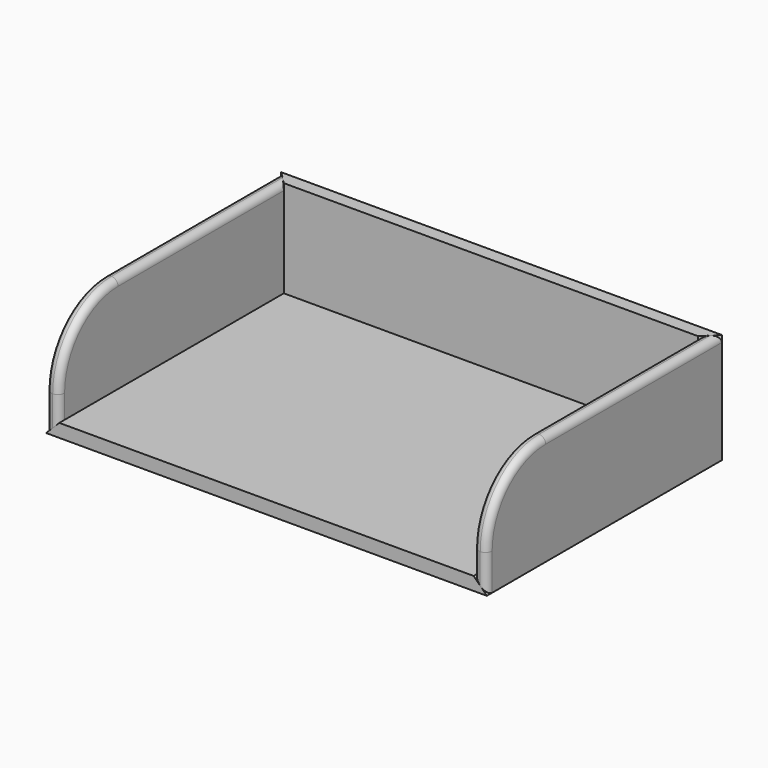
from build123d import *

# Parameters (mm, degrees)
SKETCH_W        = 600
SKETCH_H        = 400
PAD_DEPTH       = 18
CHAMFER_SIZE    = 17.9982
PAD001_DEPTH    = 18
CHAMFER001_SIZE = 17.9982
FILLET_R        = 8.99991
PAD002_DEPTH    = 18
CHAMFER002_SIZE = 17.9982
FILLET001_R     = 8.99991
SKETCH003_W     = 600
SKETCH003_H     = 150
PAD003_DEPTH    = 18
CHAMFER003_SIZE = 17.9982


with BuildPart() as base:
    # Sketch → Pad (new body)
    with BuildSketch(Plane.XY):
        Rectangle(SKETCH_W, SKETCH_H)
    extrude(amount=PAD_DEPTH)

    # Chamfer
    chamfer_edges = [base.edges().sort_by_distance(p)[0] for p in [
        (0, 200, 18),
        (300, 0, 18),
        (-300, 0, 18),
    ]]
    chamfer(chamfer_edges, length=CHAMFER_SIZE)


with BuildPart() as left:
    # Sketch001 → Pad001 (new body)
    with BuildSketch(Plane.YZ):
        with BuildLine():
            Line((-200, 50), (-200, 0))
            Line((-200, 0), (200, 0))
            Line((200, 0), (200, 150))
            Line((200, 150), (-100, 150))
            ThreePointArc((-100, 150), (-170.710678, 120.710678), (-200, 50))
        make_face()
    extrude(amount=PAD001_DEPTH)

    # Chamfer001
    chamfer001_edges = [left.edges().sort_by_distance(p)[0] for p in [
        (18, 200, 75),
        (18, 0, 0),
    ]]
    chamfer(chamfer001_edges, length=CHAMFER001_SIZE)

    # Fillet
    fillet_edges = [left.edges().sort_by_distance(p)[0] for p in [
        (18, -170.710678, 120.710678),
        (18, 41.0009, 150),
        (0, -200, 25),
        (0, -170.710678, 120.710678),
        (0, 50, 150),
    ]]
    fillet(fillet_edges, radius=FILLET_R)


with BuildPart() as left_1:
    # Body001 placement: moved
    add(left.part.moved(Location((-300, 0, 0))))


with BuildPart() as right:
    # Sketch002 → Pad002 (new body)
    with BuildSketch(Plane.YZ):
        with BuildLine():
            Line((-200, 50), (-200, 0))
            Line((-200, 0), (200, 0))
            Line((200, 0), (200, 150))
            Line((200, 150), (-100, 150))
            ThreePointArc((-100, 150), (-170.710678, 120.710678), (-200, 50))
        make_face()
    extrude(amount=PAD002_DEPTH)

    # Chamfer002
    chamfer002_edges = [right.edges().sort_by_distance(p)[0] for p in [
        (0, 200, 75),
        (0, 0, 0),
    ]]
    chamfer(chamfer002_edges, length=CHAMFER002_SIZE)

    # Fillet001
    fillet001_edges = [right.edges().sort_by_distance(p)[0] for p in [
        (18, 50, 150),
        (0, -200, 33.9991),
        (0, 41.0009, 150),
    ]]
    fillet(fillet001_edges, radius=FILLET001_R)


with BuildPart() as right_1:
    # Body002 placement: moved
    add(right.part.moved(Location((282, 0, 0))))


with BuildPart() as back:
    # Sketch003 → Pad003 (new body)
    with BuildSketch(Plane.XZ):
        with Locations((0, 75)):
            Rectangle(SKETCH003_W, SKETCH003_H)
    extrude(amount=PAD003_DEPTH)

    # Chamfer003
    chamfer003_edges = [back.edges().sort_by_distance(p)[0] for p in [
        (-300, -18, 75),
        (0, -18, 0),
        (300, -18, 75),
    ]]
    chamfer(chamfer003_edges, length=CHAMFER003_SIZE)


with BuildPart() as back_1:
    # Body003 placement: moved
    add(back.part.moved(Location((0, 200, 0))))


solid = Compound([base.part, left_1.part, right_1.part, back_1.part])
